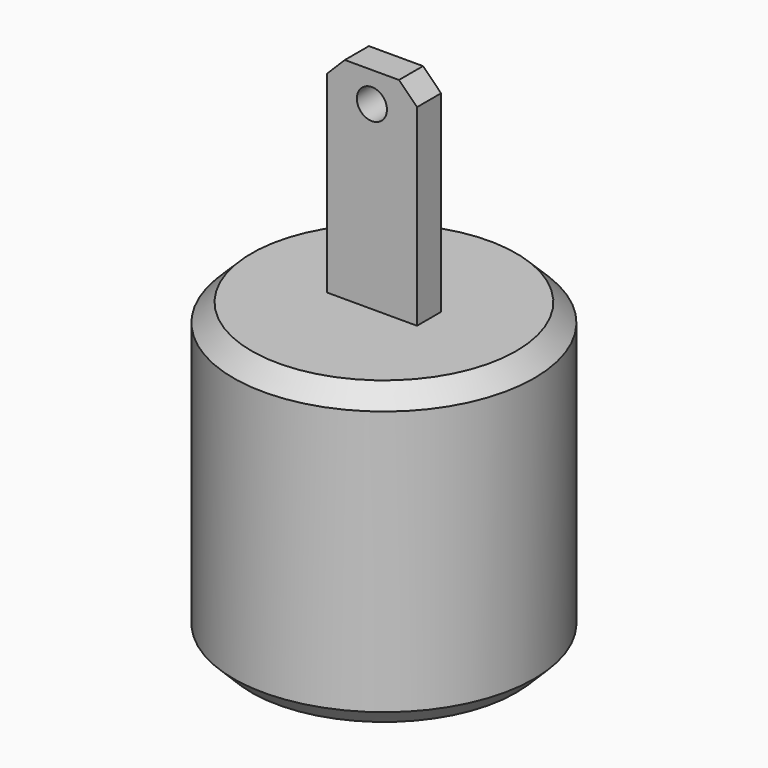
from build123d import *

# Parameters (mm, degrees)
F0_R     = 25
F1_DEPTH = 25
F2_W     = 15
F2_H     = 5
F3_DEPTH = 35
F4_R     = 2.5
F5_DEPTH = 5
F6_SIZE  = 3


with BuildPart() as f1:
    # F0 (on Top) → F1 (new body, symmetric)
    with BuildSketch(Plane.XY):
        Circle(F0_R)
    extrude(amount=F1_DEPTH, both=True)

    # F2 (on face) → F3 (join)
    with BuildSketch(Plane.XY.offset(25)):
        Rectangle(F2_W, F2_H)
    extrude(amount=F3_DEPTH)

    # F4 (on face) → F5 (cut, through all)
    with BuildSketch(Plane.XZ.offset(2.5)):
        with Locations((0, 55)):
            Circle(F4_R)
    extrude(amount=-F5_DEPTH, mode=Mode.SUBTRACT)

    # F6
    f6_edges = [f1.edges().sort_by_distance(p)[0] for p in [
        (-25, 0, 25),
        (-25, 0, -25),
        (-7.5, 0, 60),
        (7.5, 0, 60),
    ]]
    chamfer(f6_edges, length=F6_SIZE)


solid = f1.part
